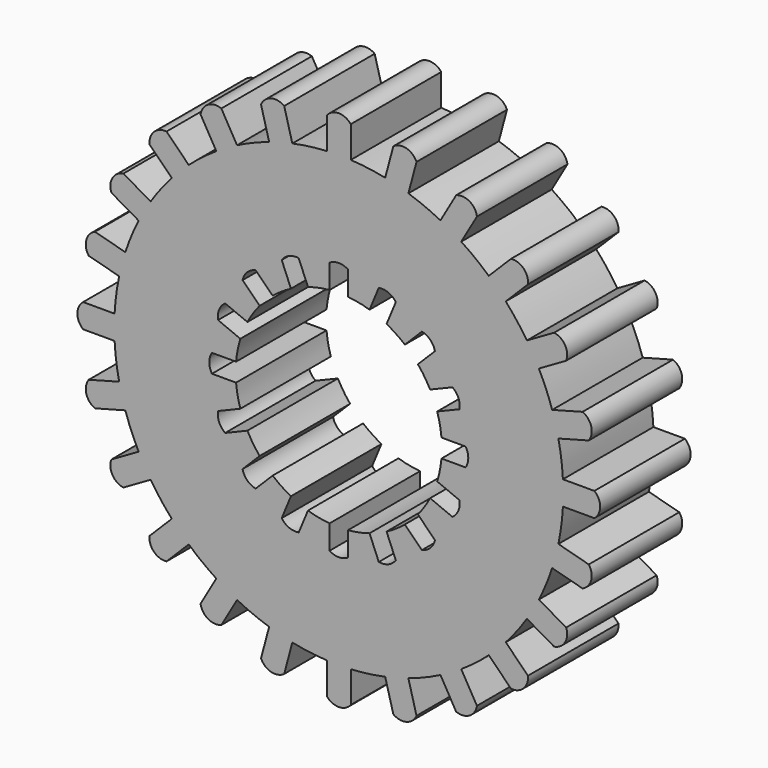
from build123d import *

# Parameters (mm, degrees)
F2_DEPTH = 12.7
F3_DEPTH = 12.7


with BuildPart() as f2:
    # F0 (on Front) → F2 (new body, symmetric)
    with BuildSketch(Plane.XZ):
        with BuildLine():
            ThreePointArc((50.341745, -2.695106), (50.39581, -1.348035), (50.413836, 0))
            ThreePointArc((50.413836, 0), (50.39581, 1.348035), (50.341745, 2.695106))
            ThreePointArc((50.341745, 2.695106), (49.982539, 6.580326), (49.323936, 10.42613))
            ThreePointArc((49.323936, 10.42613), (48.696026, 13.048061), (47.928847, 15.632675))
            ThreePointArc((47.928847, 15.632675), (46.576311, 19.29254), (44.944783, 22.836842))
            ThreePointArc((44.944783, 22.836842), (43.659663, 25.206918), (42.249677, 27.504902))
            ThreePointArc((42.249677, 27.504902), (39.995985, 30.689999), (37.502717, 33.691262))
            ThreePointArc((37.502717, 33.691262), (35.647965, 35.647965), (33.691262, 37.502717))
            ThreePointArc((33.691262, 37.502717), (30.689999, 39.995985), (27.504902, 42.249677))
            ThreePointArc((27.504902, 42.249677), (25.206918, 43.659663), (22.836842, 44.944783))
            ThreePointArc((22.836842, 44.944783), (19.29254, 46.576311), (15.632675, 47.928847))
            ThreePointArc((15.632675, 47.928847), (13.048061, 48.696026), (10.42613, 49.323936))
            ThreePointArc((10.42613, 49.323936), (6.580326, 49.982539), (2.695106, 50.341745))
            ThreePointArc((2.695106, 50.341745), (0, 50.413836), (-2.695106, 50.341745))
            ThreePointArc((-2.695106, 50.341745), (-6.580326, 49.982539), (-10.42613, 49.323936))
            ThreePointArc((-10.42613, 49.323936), (-13.048061, 48.696026), (-15.632675, 47.928847))
            ThreePointArc((-15.632675, 47.928847), (-19.29254, 46.576311), (-22.836842, 44.944783))
            ThreePointArc((-22.836842, 44.944783), (-25.206918, 43.659663), (-27.504902, 42.249677))
            ThreePointArc((-27.504902, 42.249677), (-30.689999, 39.995985), (-33.691262, 37.502717))
            ThreePointArc((-33.691262, 37.502717), (-35.647965, 35.647965), (-37.502717, 33.691262))
            ThreePointArc((-37.502717, 33.691262), (-39.995985, 30.689999), (-42.249677, 27.504902))
            ThreePointArc((-42.249677, 27.504902), (-43.659663, 25.206918), (-44.944783, 22.836842))
            ThreePointArc((-44.944783, 22.836842), (-46.576311, 19.29254), (-47.928847, 15.632675))
            ThreePointArc((-47.928847, 15.632675), (-48.696026, 13.048061), (-49.323936, 10.42613))
            ThreePointArc((-49.323936, 10.42613), (-49.982539, 6.580326), (-50.341745, 2.695106))
            ThreePointArc((-50.341745, 2.695106), (-50.413836, 0), (-50.341745, -2.695106))
            ThreePointArc((-50.341745, -2.695106), (-49.982539, -6.580326), (-49.323936, -10.42613))
            ThreePointArc((-49.323936, -10.42613), (-48.696026, -13.048061), (-47.928847, -15.632675))
            ThreePointArc((-47.928847, -15.632675), (-46.576311, -19.29254), (-44.944783, -22.836842))
            ThreePointArc((-44.944783, -22.836842), (-43.659663, -25.206918), (-42.249677, -27.504902))
            ThreePointArc((-42.249677, -27.504902), (-39.995985, -30.689999), (-37.502717, -33.691262))
            ThreePointArc((-37.502717, -33.691262), (-35.647965, -35.647965), (-33.691262, -37.502717))
            ThreePointArc((-33.691262, -37.502717), (-30.689999, -39.995985), (-27.504902, -42.249677))
            ThreePointArc((-27.504902, -42.249677), (-25.206918, -43.659663), (-22.836842, -44.944783))
            ThreePointArc((-22.836842, -44.944783), (-19.29254, -46.576311), (-15.632675, -47.928847))
            ThreePointArc((-15.632675, -47.928847), (-13.048061, -48.696026), (-10.42613, -49.323936))
            ThreePointArc((-10.42613, -49.323936), (-6.580326, -49.982539), (-2.695106, -50.341745))
            ThreePointArc((-2.695106, -50.341745), (0, -50.413836), (2.695106, -50.341745))
            ThreePointArc((2.695106, -50.341745), (6.580326, -49.982539), (10.42613, -49.323936))
            ThreePointArc((10.42613, -49.323936), (13.048061, -48.696026), (15.632675, -47.928847))
            ThreePointArc((15.632675, -47.928847), (19.29254, -46.576311), (22.836842, -44.944783))
            ThreePointArc((22.836842, -44.944783), (25.206918, -43.659663), (27.504902, -42.249677))
            ThreePointArc((27.504902, -42.249677), (30.689999, -39.995985), (33.691262, -37.502717))
            ThreePointArc((33.691262, -37.502717), (35.647965, -35.647965), (37.502717, -33.691262))
            ThreePointArc((37.502717, -33.691262), (39.995985, -30.689999), (42.249677, -27.504902))
            ThreePointArc((42.249677, -27.504902), (43.659663, -25.206918), (44.944783, -22.836842))
            ThreePointArc((44.944783, -22.836842), (46.576311, -19.29254), (47.928847, -15.632675))
            ThreePointArc((47.928847, -15.632675), (48.696026, -13.048061), (49.323936, -10.42613))
            ThreePointArc((49.323936, -10.42613), (49.982539, -6.580326), (50.341745, -2.695106))
        make_face()
        with BuildLine():
            ThreePointArc((-15.632675, 47.928847), (-13.048061, 48.696026), (-10.42613, 49.323936))
            Line((-10.42613, 49.323936), (-12.254708, 56.148282))
            ThreePointArc((-12.254708, 56.148282), (-15.193093, 56.701396), (-17.461253, 54.753193))
            Line((-17.461253, 54.753193), (-15.632675, 47.928847))
        make_face()
        with BuildLine():
            ThreePointArc((-2.695106, 50.341745), (0, 50.413836), (2.695106, 50.341745))
            Line((2.695106, 50.341745), (2.695106, 57.406828))
            ThreePointArc((2.695106, 57.406828), (0, 58.701604), (-2.695106, 57.406828))
            Line((-2.695106, 57.406828), (-2.695106, 50.341745))
        make_face()
        with BuildLine():
            ThreePointArc((10.42613, 49.323936), (13.048061, 48.696026), (15.632675, 47.928847))
            Line((15.632675, 47.928847), (17.461253, 54.753193))
            ThreePointArc((17.461253, 54.753193), (15.193093, 56.701396), (12.254708, 56.148282))
            Line((12.254708, 56.148282), (10.42613, 49.323936))
        make_face()
        with BuildLine():
            ThreePointArc((22.836842, 44.944783), (25.206918, 43.659663), (27.504902, 42.249677))
            Line((27.504902, 42.249677), (31.037444, 48.368218))
            ThreePointArc((31.037444, 48.368218), (29.350802, 50.837081), (26.369384, 51.063324))
            Line((26.369384, 51.063324), (22.836842, 44.944783))
        make_face()
        with BuildLine():
            ThreePointArc((33.691262, 37.502717), (35.647965, 35.647965), (37.502717, 33.691262))
            Line((37.502717, 33.691262), (42.498485, 38.68703))
            ThreePointArc((42.498485, 38.68703), (41.508303, 41.508303), (38.68703, 42.498485))
            Line((38.68703, 42.498485), (33.691262, 37.502717))
        make_face()
        with BuildLine():
            ThreePointArc((42.249677, 27.504902), (43.659663, 25.206918), (44.944783, 22.836842))
            Line((44.944783, 22.836842), (51.063324, 26.369384))
            ThreePointArc((51.063324, 26.369384), (50.837081, 29.350802), (48.368218, 31.037444))
            Line((48.368218, 31.037444), (42.249677, 27.504902))
        make_face()
        with BuildLine():
            ThreePointArc((47.928847, 15.632675), (48.696026, 13.048061), (49.323936, 10.42613))
            Line((49.323936, 10.42613), (56.148282, 12.254708))
            ThreePointArc((56.148282, 12.254708), (56.701396, 15.193093), (54.753193, 17.461253))
            Line((54.753193, 17.461253), (47.928847, 15.632675))
        make_face()
        with BuildLine():
            ThreePointArc((50.341745, 2.695106), (50.39581, 1.348035), (50.413836, 0))
            ThreePointArc((50.413836, 0), (50.39581, -1.348035), (50.341745, -2.695106))
            Line((50.341745, -2.695106), (57.406828, -2.695106))
            ThreePointArc((57.406828, -2.695106), (58.701604, 0), (57.406828, 2.695106))
            Line((57.406828, 2.695106), (50.341745, 2.695106))
        make_face()
        with BuildLine():
            Line((56.148282, -12.254708), (49.323936, -10.42613))
            ThreePointArc((49.323936, -10.42613), (48.696026, -13.048061), (47.928847, -15.632675))
            Line((47.928847, -15.632675), (54.753193, -17.461253))
            ThreePointArc((54.753193, -17.461253), (56.701396, -15.193093), (56.148282, -12.254708))
        make_face()
        with BuildLine():
            Line((51.063324, -26.369384), (44.944783, -22.836842))
            ThreePointArc((44.944783, -22.836842), (43.659663, -25.206918), (42.249677, -27.504902))
            Line((42.249677, -27.504902), (48.368218, -31.037444))
            ThreePointArc((48.368218, -31.037444), (50.837081, -29.350802), (51.063324, -26.369384))
        make_face()
        with BuildLine():
            Line((42.498485, -38.68703), (37.502717, -33.691262))
            ThreePointArc((37.502717, -33.691262), (35.647965, -35.647965), (33.691262, -37.502717))
            Line((33.691262, -37.502717), (38.68703, -42.498485))
            ThreePointArc((38.68703, -42.498485), (41.508303, -41.508303), (42.498485, -38.68703))
        make_face()
        with BuildLine():
            Line((31.037444, -48.368218), (27.504902, -42.249677))
            ThreePointArc((27.504902, -42.249677), (25.206918, -43.659663), (22.836842, -44.944783))
            Line((22.836842, -44.944783), (26.369384, -51.063324))
            ThreePointArc((26.369384, -51.063324), (29.350802, -50.837081), (31.037444, -48.368218))
        make_face()
        with BuildLine():
            Line((17.461253, -54.753193), (15.632675, -47.928847))
            ThreePointArc((15.632675, -47.928847), (13.048061, -48.696026), (10.42613, -49.323936))
            Line((10.42613, -49.323936), (12.254708, -56.148282))
            ThreePointArc((12.254708, -56.148282), (15.193093, -56.701396), (17.461253, -54.753193))
        make_face()
        with BuildLine():
            Line((2.695106, -57.406828), (2.695106, -50.341745))
            ThreePointArc((2.695106, -50.341745), (0, -50.413836), (-2.695106, -50.341745))
            Line((-2.695106, -50.341745), (-2.695106, -57.406828))
            ThreePointArc((-2.695106, -57.406828), (0, -58.701604), (2.695106, -57.406828))
        make_face()
        with BuildLine():
            Line((-12.254708, -56.148282), (-10.42613, -49.323936))
            ThreePointArc((-10.42613, -49.323936), (-13.048061, -48.696026), (-15.632675, -47.928847))
            Line((-15.632675, -47.928847), (-17.461253, -54.753193))
            ThreePointArc((-17.461253, -54.753193), (-15.193093, -56.701396), (-12.254708, -56.148282))
        make_face()
        with BuildLine():
            Line((-26.369384, -51.063324), (-22.836842, -44.944783))
            ThreePointArc((-22.836842, -44.944783), (-25.206918, -43.659663), (-27.504902, -42.249677))
            Line((-27.504902, -42.249677), (-31.037444, -48.368218))
            ThreePointArc((-31.037444, -48.368218), (-29.350802, -50.837081), (-26.369384, -51.063324))
        make_face()
        with BuildLine():
            Line((-38.68703, -42.498485), (-33.691262, -37.502717))
            ThreePointArc((-33.691262, -37.502717), (-35.647965, -35.647965), (-37.502717, -33.691262))
            Line((-37.502717, -33.691262), (-42.498485, -38.68703))
            ThreePointArc((-42.498485, -38.68703), (-41.508303, -41.508303), (-38.68703, -42.498485))
        make_face()
        with BuildLine():
            Line((-48.368218, -31.037444), (-42.249677, -27.504902))
            ThreePointArc((-42.249677, -27.504902), (-43.659663, -25.206918), (-44.944783, -22.836842))
            Line((-44.944783, -22.836842), (-51.063324, -26.369384))
            ThreePointArc((-51.063324, -26.369384), (-50.837081, -29.350802), (-48.368218, -31.037444))
        make_face()
        with BuildLine():
            Line((-54.753193, -17.461253), (-47.928847, -15.632675))
            ThreePointArc((-47.928847, -15.632675), (-48.696026, -13.048061), (-49.323936, -10.42613))
            Line((-49.323936, -10.42613), (-56.148282, -12.254708))
            ThreePointArc((-56.148282, -12.254708), (-56.701396, -15.193093), (-54.753193, -17.461253))
        make_face()
        with BuildLine():
            ThreePointArc((-50.341745, -2.695106), (-50.413836, 0), (-50.341745, 2.695106))
            Line((-50.341745, 2.695106), (-57.406828, 2.695106))
            ThreePointArc((-57.406828, 2.695106), (-58.701604, 0), (-57.406828, -2.695106))
            Line((-57.406828, -2.695106), (-50.341745, -2.695106))
        make_face()
        with BuildLine():
            ThreePointArc((-49.323936, 10.42613), (-48.696026, 13.048061), (-47.928847, 15.632675))
            Line((-47.928847, 15.632675), (-54.753193, 17.461253))
            ThreePointArc((-54.753193, 17.461253), (-56.701396, 15.193093), (-56.148282, 12.254708))
            Line((-56.148282, 12.254708), (-49.323936, 10.42613))
        make_face()
        with BuildLine():
            ThreePointArc((-44.944783, 22.836842), (-43.659663, 25.206918), (-42.249677, 27.504902))
            Line((-42.249677, 27.504902), (-48.368218, 31.037444))
            ThreePointArc((-48.368218, 31.037444), (-50.837081, 29.350802), (-51.063324, 26.369384))
            Line((-51.063324, 26.369384), (-44.944783, 22.836842))
        make_face()
        with BuildLine():
            ThreePointArc((-37.502717, 33.691262), (-35.647965, 35.647965), (-33.691262, 37.502717))
            Line((-33.691262, 37.502717), (-38.68703, 42.498485))
            ThreePointArc((-38.68703, 42.498485), (-41.508303, 41.508303), (-42.498485, 38.68703))
            Line((-42.498485, 38.68703), (-37.502717, 33.691262))
        make_face()
        with BuildLine():
            ThreePointArc((-27.504902, 42.249677), (-25.206918, 43.659663), (-22.836842, 44.944783))
            Line((-22.836842, 44.944783), (-26.369384, 51.063324))
            ThreePointArc((-26.369384, 51.063324), (-29.350802, 50.837081), (-31.037444, 48.368218))
            Line((-31.037444, 48.368218), (-27.504902, 42.249677))
        make_face()
    extrude(amount=F2_DEPTH, both=True)

    # F1 (on Front) → F3 (cut, symmetric)
    with BuildSketch(Plane.XZ):
        with BuildLine():
            ThreePointArc((23.06648, -2.069278), (23.135941, -1.035675), (23.15911, 0))
            ThreePointArc((23.15911, 0), (23.135941, 1.035675), (23.06648, 2.069278))
            ThreePointArc((23.06648, 2.069278), (22.714114, 4.518118), (22.102527, 6.915396))
            ThreePointArc((22.102527, 6.915396), (21.396228, 8.862608), (20.51877, 10.738923))
            ThreePointArc((20.51877, 10.738923), (19.256096, 12.866512), (17.773665, 14.847264))
            ThreePointArc((17.773665, 14.847264), (16.375964, 16.375964), (14.847264, 17.773665))
            ThreePointArc((14.847264, 17.773665), (12.866512, 19.256096), (10.738923, 20.51877))
            ThreePointArc((10.738923, 20.51877), (8.862608, 21.396228), (6.915396, 22.102527))
            ThreePointArc((6.915396, 22.102527), (4.518118, 22.714114), (2.069278, 23.06648))
            ThreePointArc((2.069278, 23.06648), (0, 23.15911), (-2.069278, 23.06648))
            ThreePointArc((-2.069278, 23.06648), (-4.518118, 22.714114), (-6.915396, 22.102527))
            ThreePointArc((-6.915396, 22.102527), (-8.862608, 21.396228), (-10.738923, 20.51877))
            ThreePointArc((-10.738923, 20.51877), (-12.866512, 19.256096), (-14.847264, 17.773665))
            ThreePointArc((-14.847264, 17.773665), (-16.375964, 16.375964), (-17.773665, 14.847264))
            ThreePointArc((-17.773665, 14.847264), (-19.256096, 12.866512), (-20.51877, 10.738923))
            ThreePointArc((-20.51877, 10.738923), (-21.396228, 8.862608), (-22.102527, 6.915396))
            ThreePointArc((-22.102527, 6.915396), (-22.714114, 4.518118), (-23.06648, 2.069278))
            ThreePointArc((-23.06648, 2.069278), (-23.15911, 0), (-23.06648, -2.069278))
            ThreePointArc((-23.06648, -2.069278), (-22.714114, -4.518118), (-22.102527, -6.915396))
            ThreePointArc((-22.102527, -6.915396), (-21.396228, -8.862608), (-20.51877, -10.738923))
            ThreePointArc((-20.51877, -10.738923), (-19.256096, -12.866512), (-17.773665, -14.847264))
            ThreePointArc((-17.773665, -14.847264), (-16.375964, -16.375964), (-14.847264, -17.773665))
            ThreePointArc((-14.847264, -17.773665), (-12.866512, -19.256096), (-10.738923, -20.51877))
            ThreePointArc((-10.738923, -20.51877), (-8.862608, -21.396228), (-6.915396, -22.102527))
            ThreePointArc((-6.915396, -22.102527), (-4.518118, -22.714114), (-2.069278, -23.06648))
            ThreePointArc((-2.069278, -23.06648), (0, -23.15911), (2.069278, -23.06648))
            ThreePointArc((2.069278, -23.06648), (4.518118, -22.714114), (6.915396, -22.102527))
            ThreePointArc((6.915396, -22.102527), (8.862608, -21.396228), (10.738923, -20.51877))
            ThreePointArc((10.738923, -20.51877), (12.866512, -19.256096), (14.847264, -17.773665))
            ThreePointArc((14.847264, -17.773665), (16.375964, -16.375964), (17.773665, -14.847264))
            ThreePointArc((17.773665, -14.847264), (19.256096, -12.866512), (20.51877, -10.738923))
            ThreePointArc((20.51877, -10.738923), (21.396228, -8.862608), (22.102527, -6.915396))
            ThreePointArc((22.102527, -6.915396), (22.714114, -4.518118), (23.06648, -2.069278))
        make_face()
        with BuildLine():
            ThreePointArc((23.06648, 2.069278), (23.135941, 1.035675), (23.15911, 0))
            ThreePointArc((23.15911, 0), (23.135941, -1.035675), (23.06648, -2.069278))
            Line((23.06648, -2.069278), (28.479526, -2.069278))
            ThreePointArc((28.479526, -2.069278), (29.085168, 0), (28.479526, 2.069278))
            Line((28.479526, 2.069278), (23.06648, 2.069278))
        make_face()
        with BuildLine():
            ThreePointArc((20.51877, 10.738923), (21.396228, 8.862608), (22.102527, 6.915396))
            Line((22.102527, 6.915396), (27.103529, 8.986879))
            ThreePointArc((27.103529, 8.986879), (26.871191, 11.130412), (25.519773, 12.810406))
            Line((25.519773, 12.810406), (20.51877, 10.738923))
        make_face()
        with BuildLine():
            Line((27.103529, -8.986879), (22.102527, -6.915396))
            ThreePointArc((22.102527, -6.915396), (21.396228, -8.862608), (20.51877, -10.738923))
            Line((20.51877, -10.738923), (25.519773, -12.810406))
            ThreePointArc((25.519773, -12.810406), (26.871191, -11.130412), (27.103529, -8.986879))
        make_face()
        with BuildLine():
            ThreePointArc((14.847264, 17.773665), (16.375964, 16.375964), (17.773665, 14.847264))
            Line((17.773665, 14.847264), (21.601266, 18.674865))
            ThreePointArc((21.601266, 18.674865), (20.566319, 20.566319), (18.674865, 21.601266))
            Line((18.674865, 21.601266), (14.847264, 17.773665))
        make_face()
        with BuildLine():
            Line((21.601266, -18.674865), (17.773665, -14.847264))
            ThreePointArc((17.773665, -14.847264), (16.375964, -16.375964), (14.847264, -17.773665))
            Line((14.847264, -17.773665), (18.674865, -21.601266))
            ThreePointArc((18.674865, -21.601266), (20.566319, -20.566319), (21.601266, -18.674865))
        make_face()
        with BuildLine():
            ThreePointArc((6.915396, 22.102527), (8.862608, 21.396228), (10.738923, 20.51877))
            Line((10.738923, 20.51877), (12.810406, 25.519773))
            ThreePointArc((12.810406, 25.519773), (11.130412, 26.871191), (8.986879, 27.103529))
            Line((8.986879, 27.103529), (6.915396, 22.102527))
        make_face()
        with BuildLine():
            Line((12.810406, -25.519773), (10.738923, -20.51877))
            ThreePointArc((10.738923, -20.51877), (8.862608, -21.396228), (6.915396, -22.102527))
            Line((6.915396, -22.102527), (8.986879, -27.103529))
            ThreePointArc((8.986879, -27.103529), (11.130412, -26.871191), (12.810406, -25.519773))
        make_face()
        with BuildLine():
            ThreePointArc((-2.069278, 23.06648), (0, 23.15911), (2.069278, 23.06648))
            Line((2.069278, 23.06648), (2.069278, 28.479526))
            ThreePointArc((2.069278, 28.479526), (0, 29.085168), (-2.069278, 28.479526))
            Line((-2.069278, 28.479526), (-2.069278, 23.06648))
        make_face()
        with BuildLine():
            Line((2.069278, -28.479526), (2.069278, -23.06648))
            ThreePointArc((2.069278, -23.06648), (0, -23.15911), (-2.069278, -23.06648))
            Line((-2.069278, -23.06648), (-2.069278, -28.479526))
            ThreePointArc((-2.069278, -28.479526), (0, -29.085168), (2.069278, -28.479526))
        make_face()
        with BuildLine():
            ThreePointArc((-10.738923, 20.51877), (-8.862608, 21.396228), (-6.915396, 22.102527))
            Line((-6.915396, 22.102527), (-8.986879, 27.103529))
            ThreePointArc((-8.986879, 27.103529), (-11.130412, 26.871191), (-12.810406, 25.519773))
            Line((-12.810406, 25.519773), (-10.738923, 20.51877))
        make_face()
        with BuildLine():
            Line((-8.986879, -27.103529), (-6.915396, -22.102527))
            ThreePointArc((-6.915396, -22.102527), (-8.862608, -21.396228), (-10.738923, -20.51877))
            Line((-10.738923, -20.51877), (-12.810406, -25.519773))
            ThreePointArc((-12.810406, -25.519773), (-11.130412, -26.871191), (-8.986879, -27.103529))
        make_face()
        with BuildLine():
            ThreePointArc((-17.773665, 14.847264), (-16.375964, 16.375964), (-14.847264, 17.773665))
            Line((-14.847264, 17.773665), (-18.674865, 21.601266))
            ThreePointArc((-18.674865, 21.601266), (-20.566319, 20.566319), (-21.601266, 18.674865))
            Line((-21.601266, 18.674865), (-17.773665, 14.847264))
        make_face()
        with BuildLine():
            Line((-18.674865, -21.601266), (-14.847264, -17.773665))
            ThreePointArc((-14.847264, -17.773665), (-16.375964, -16.375964), (-17.773665, -14.847264))
            Line((-17.773665, -14.847264), (-21.601266, -18.674865))
            ThreePointArc((-21.601266, -18.674865), (-20.566319, -20.566319), (-18.674865, -21.601266))
        make_face()
        with BuildLine():
            ThreePointArc((-22.102527, 6.915396), (-21.396228, 8.862608), (-20.51877, 10.738923))
            Line((-20.51877, 10.738923), (-25.519773, 12.810406))
            ThreePointArc((-25.519773, 12.810406), (-26.871191, 11.130412), (-27.103529, 8.986879))
            Line((-27.103529, 8.986879), (-22.102527, 6.915396))
        make_face()
        with BuildLine():
            Line((-25.519773, -12.810406), (-20.51877, -10.738923))
            ThreePointArc((-20.51877, -10.738923), (-21.396228, -8.862608), (-22.102527, -6.915396))
            Line((-22.102527, -6.915396), (-27.103529, -8.986879))
            ThreePointArc((-27.103529, -8.986879), (-26.871191, -11.130412), (-25.519773, -12.810406))
        make_face()
        with BuildLine():
            ThreePointArc((-23.06648, -2.069278), (-23.15911, 0), (-23.06648, 2.069278))
            Line((-23.06648, 2.069278), (-28.479526, 2.069278))
            ThreePointArc((-28.479526, 2.069278), (-29.085168, 0), (-28.479526, -2.069278))
            Line((-28.479526, -2.069278), (-23.06648, -2.069278))
        make_face()
    extrude(amount=F3_DEPTH, both=True, mode=Mode.SUBTRACT)


solid = f2.part
